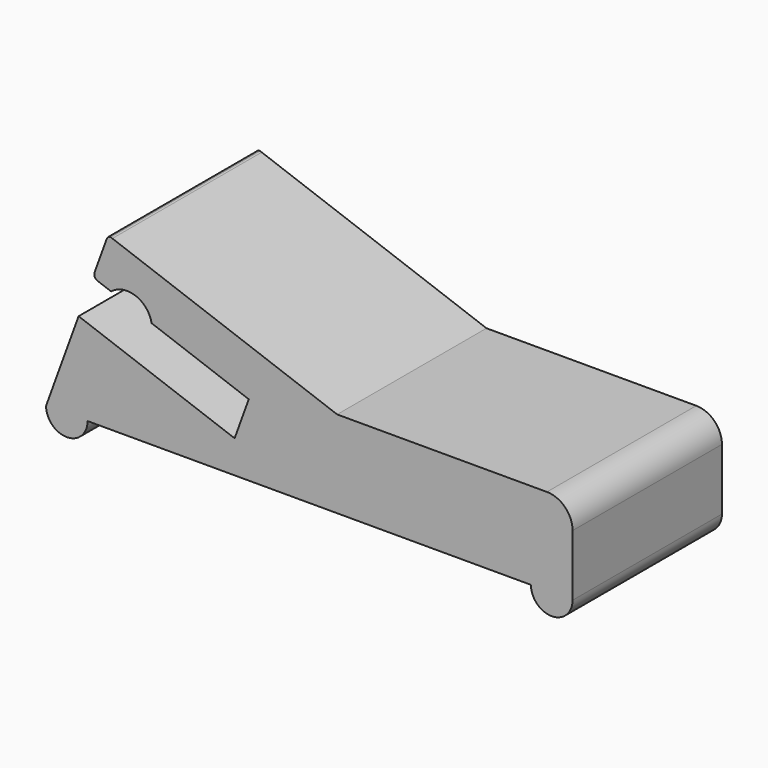
from build123d import *

# Parameters (mm, degrees)
F1_DEPTH = 11.43


with BuildPart() as f1:
    # F0 (on Front) → F1 (new body)
    with BuildSketch(Plane.XZ):
        with BuildLine():
            Line((7.232656, -10.369183), (-5.611242, -10.369183))
            Line((-5.611242, -10.369183), (-19.373023, -5.360304))
            Line((-19.373023, -5.360304), (-19.471229, -5.32456))
            ThreePointArc((-19.471229, -5.32456), (-19.609481, -5.352263), (-19.704856, -5.456114))
            Line((-19.704856, -5.456114), (-19.717097, -5.489745))
            Line((-19.717097, -5.489745), (-20.461329, -7.534505))
            ThreePointArc((-20.461329, -7.534505), (-20.455605, -7.768236), (-20.29246, -7.935707))
            Line((-20.29246, -7.935707), (-20.24709, -7.95222))
            Line((-20.24709, -7.95222), (-19.452098, -8.241573))
            ThreePointArc((-19.452098, -8.241573), (-17.953045, -7.984315), (-16.970065, -9.144959))
            Line((-16.970065, -9.144959), (-11.02035, -11.310479))
            Line((-11.02035, -11.310479), (-11.889081, -13.697298))
            Line((-11.889081, -13.697298), (-21.43925, -10.221321))
            Line((-21.43925, -10.221321), (-23.431586, -15.69522))
            ThreePointArc((-23.431586, -15.69522), (-22.161746, -16.975716), (-20.891907, -15.69522))
            Line((-20.891907, -15.69522), (6.253351, -15.69522))
            ThreePointArc((6.253351, -15.69522), (7.529052, -16.970921), (8.804753, -15.69522))
            Line((8.804753, -15.69522), (8.804753, -11.94128))
            ThreePointArc((8.804753, -11.94128), (8.344297, -10.829639), (7.232656, -10.369183))
        make_face()
    extrude(amount=F1_DEPTH)


solid = f1.part
